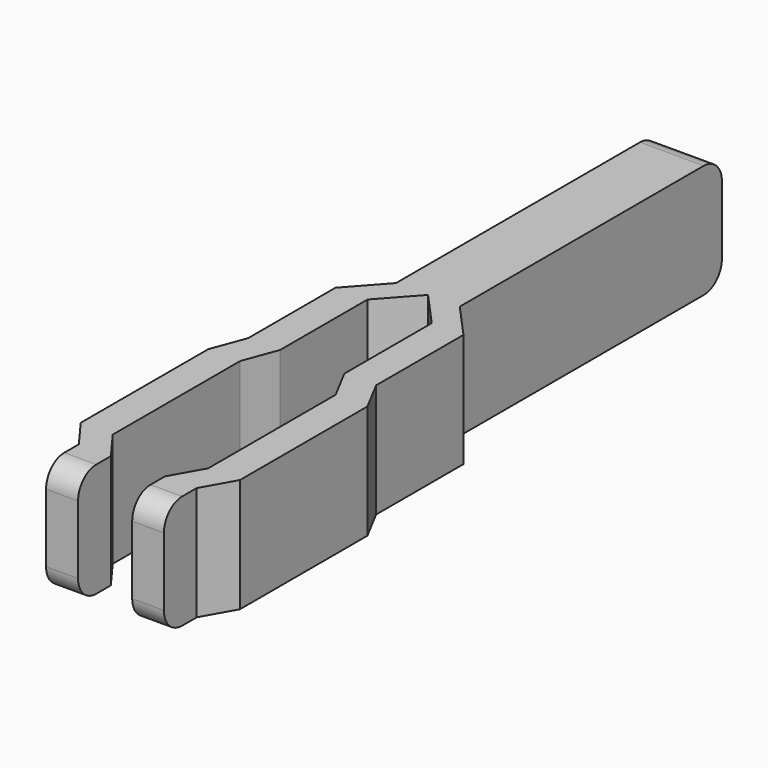
from build123d import *

# Parameters (mm, degrees)
F1_DEPTH = 25
F2_R     = 5


with BuildPart() as f1:
    # F0 (on Top) → F1 (new body)
    with BuildSketch(Plane.XY):
        Polygon((6.970078, 72), (-7.029922, 72), (-7.029922, 0), (-14.059844, -7.823622), (-14.059844, -31.823622), (-16.845336, -39.323024), (-16.845336, -74.323024), (-12.099743, -80.763471), (-12.099743, -89.763471), (-5.069822, -89.763471), (-5.069822, -80.763471), (-9.815414, -74.323024), (-9.815414, -39.323024), (-7.029922, -31.823622), (-7.029922, -7.823622), (0, 0), (7.060308, -7.796212), (7.060308, -31.796212), (10.803409, -38.866515), (10.803409, -73.866515), (6.879744, -80.838233), (6.879744, -89.838233), (13.849822, -89.838233), (13.849822, -80.838233), (17.773487, -73.866515), (17.773487, -38.866515), (14.030386, -31.796212), (14.030386, -7.796212), (6.970078, 0), align=None)
    extrude(amount=F1_DEPTH)

    # F2
    f2_edges = [f1.edges().sort_by_distance(p)[0] for p in [
        (-0.029922, 72, 25),
        (-0.029922, 72, 0),
        (-8.584782, -89.763471, 0),
        (10.364783, -89.838233, 0),
        (-8.584782, -89.763471, 25),
        (10.364783, -89.838233, 25),
    ]]
    fillet(f2_edges, radius=F2_R)


solid = f1.part
